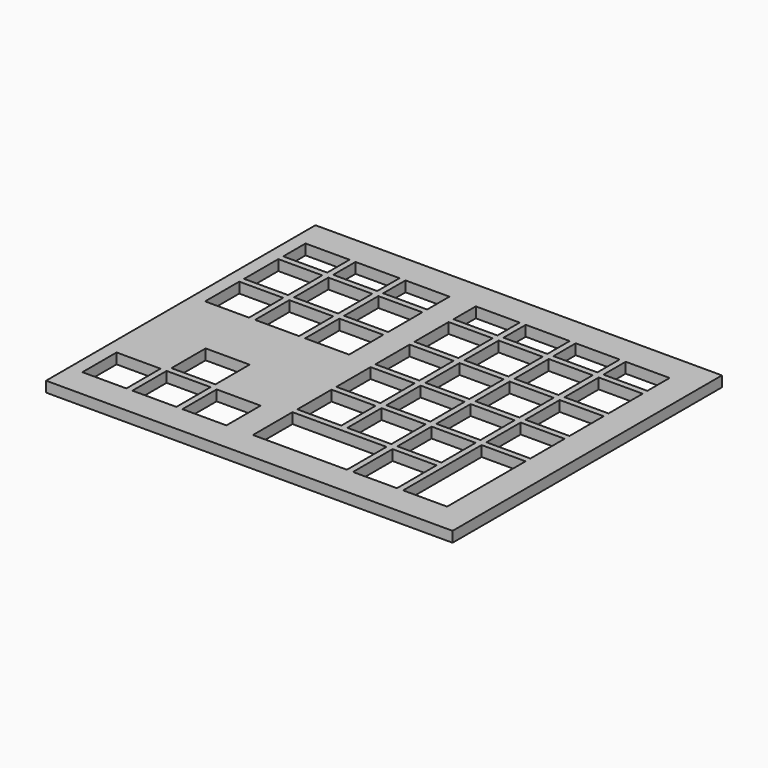
from build123d import *

# Parameters (mm, degrees)
F0_W     = 16.72
F0_H     = 16.25
F0_W_2   = 35.74
F0_H_2   = 18.81
F0_H_3   = 37.3
F0_H_4   = 10.6
F0_W_3   = 16.7007
F1_DEPTH = 4


with BuildPart() as f1:
    # F0 (on Top) → F1 (new body)
    with BuildSketch(Plane.XY):
        Polygon((26.290441, -42.578733), (26.290441, 85.421267), (-128.249559, 85.421267), (-128.249559, 78.421267), (-128.249559, -35.578733), (-128.249559, -42.578733), align=None)
        with Locations((-114.889559, -23.453733)):
            Rectangle(F0_W, F0_H, mode=Mode.SUBTRACT)
        with Locations((-95.869559, -23.453733)):
            Rectangle(F0_W, F0_H, mode=Mode.SUBTRACT)
        with Locations((-76.849559, -23.453733)):
            Rectangle(F0_W, F0_H, mode=Mode.SUBTRACT)
        with Locations((-95.869559, -4.903733)):
            Rectangle(F0_W, F0_H, mode=Mode.SUBTRACT)
        with Locations((-40.619559, -22.083733)):
            Rectangle(F0_W_2, F0_H_2, mode=Mode.SUBTRACT)
        with Locations((-12.089559, -22.083733)):
            Rectangle(F0_W, F0_H_2, mode=Mode.SUBTRACT)
        with Locations((6.930441, -12.778733)):
            Rectangle(F0_W, F0_H_3, mode=Mode.SUBTRACT)
        with Locations((-50.129559, -2.253733)):
            Rectangle(F0_W, F0_H, mode=Mode.SUBTRACT)
        with Locations((-31.109559, -2.253733)):
            Rectangle(F0_W, F0_H, mode=Mode.SUBTRACT)
        with Locations((-50.129559, 16.296267)):
            Rectangle(F0_W, F0_H, mode=Mode.SUBTRACT)
        with Locations((-31.109559, 16.296267)):
            Rectangle(F0_W, F0_H, mode=Mode.SUBTRACT)
        with Locations((-12.089559, -2.253733)):
            Rectangle(F0_W, F0_H, mode=Mode.SUBTRACT)
        with Locations((-12.089559, 16.296267)):
            Rectangle(F0_W, F0_H, mode=Mode.SUBTRACT)
        with Locations((6.930441, 16.296267)):
            Rectangle(F0_W, F0_H, mode=Mode.SUBTRACT)
        with Locations((-114.889559, 34.846267)):
            Rectangle(F0_W, F0_H, mode=Mode.SUBTRACT)
        with Locations((-95.869559, 34.846267)):
            Rectangle(F0_W, F0_H, mode=Mode.SUBTRACT)
        with Locations((-114.889559, 53.396267)):
            Rectangle(F0_W, F0_H, mode=Mode.SUBTRACT)
        with Locations((-95.869559, 53.396267)):
            Rectangle(F0_W, F0_H, mode=Mode.SUBTRACT)
        with Locations((-76.849559, 34.846267)):
            Rectangle(F0_W, F0_H, mode=Mode.SUBTRACT)
        with Locations((-76.849559, 53.396267)):
            Rectangle(F0_W, F0_H, mode=Mode.SUBTRACT)
        with Locations((-114.849559, 69.121267)):
            Rectangle(F0_W, F0_H_4, mode=Mode.SUBTRACT)
        with Locations((-95.849559, 69.121267)):
            Rectangle(F0_W, F0_H_4, mode=Mode.SUBTRACT)
        with Locations((-76.849559, 69.121267)):
            Rectangle(F0_W, F0_H_4, mode=Mode.SUBTRACT)
        with Locations((-50.129559, 34.846267)):
            Rectangle(F0_W, F0_H, mode=Mode.SUBTRACT)
        with Locations((-31.109559, 34.846267)):
            Rectangle(F0_W, F0_H, mode=Mode.SUBTRACT)
        with Locations((-50.129559, 53.396267)):
            Rectangle(F0_W, F0_H, mode=Mode.SUBTRACT)
        with Locations((-31.109559, 53.396267)):
            Rectangle(F0_W, F0_H, mode=Mode.SUBTRACT)
        with Locations((-12.089559, 34.846267)):
            Rectangle(F0_W, F0_H, mode=Mode.SUBTRACT)
        with Locations((6.930441, 34.846267)):
            Rectangle(F0_W, F0_H, mode=Mode.SUBTRACT)
        with Locations((-12.089559, 53.396267)):
            Rectangle(F0_W, F0_H, mode=Mode.SUBTRACT)
        with Locations((6.930441, 53.396267)):
            Rectangle(F0_W, F0_H, mode=Mode.SUBTRACT)
        with Locations((-50.139209, 69.121267)):
            Rectangle(F0_W_3, F0_H_4, mode=Mode.SUBTRACT)
        with Locations((-31.139209, 69.121267)):
            Rectangle(F0_W_3, F0_H_4, mode=Mode.SUBTRACT)
        with Locations((-12.139209, 69.121267)):
            Rectangle(F0_W_3, F0_H_4, mode=Mode.SUBTRACT)
        with Locations((6.860791, 69.121267)):
            Rectangle(F0_W_3, F0_H_4, mode=Mode.SUBTRACT)
    extrude(amount=F1_DEPTH)


solid = f1.part
